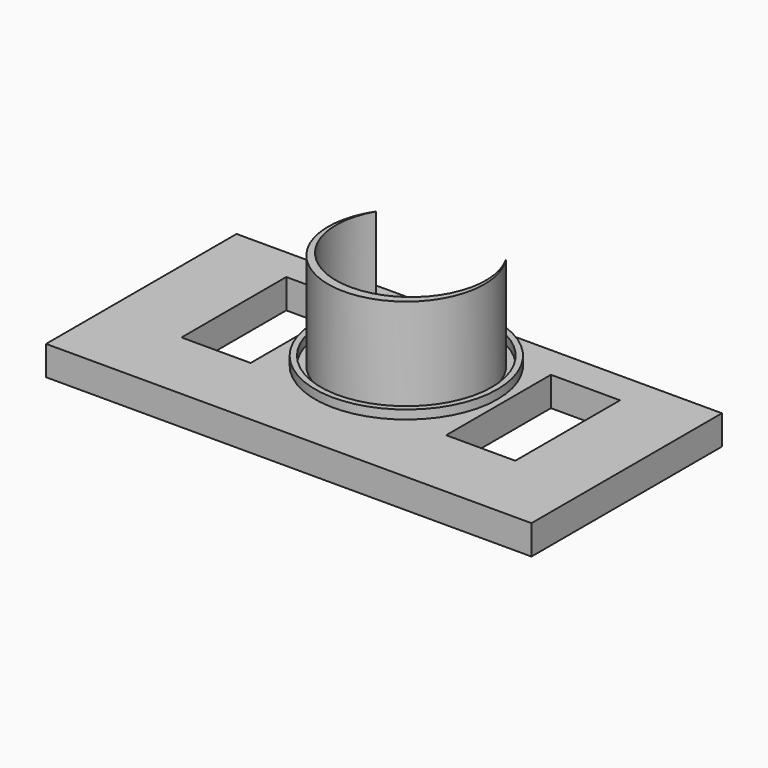
from build123d import *

# Parameters (mm, degrees)
PAD002_DEPTH  = 33
SKETCH003_W   = 165.06
SKETCH003_H   = 80.96
SKETCH003_W_2 = 23.5
SKETCH003_H_2 = 44.52
PAD003_DEPTH  = 10
SKETCH004_R   = 31
SKETCH004_R_2 = 29.055
PAD004_DEPTH  = 3


with BuildPart() as part:
    # Sketch002 → Pad002 (new body)
    with BuildSketch(Plane.XY):
        with BuildLine():
            ThreePointArc((-22.083648, 12.75), (0, -25.5), (22.083648, 12.75))
            ThreePointArc((-22.083648, 12.75), (0, -28.556543), (22.083648, 12.75))
        make_face()
    extrude(amount=PAD002_DEPTH)

    # Sketch003 → Pad003 (join)
    with BuildSketch(Plane.XY):
        with Locations((0, -11.48)):
            Rectangle(SKETCH003_W, SKETCH003_H)
        with BuildLine():
            ThreePointArc((-6.689544, 7.7), (-10.2, 0), (-6.689544, -7.7))
            Line((-6.689544, -7.7), (6.689544, -7.7))
            ThreePointArc((6.689544, -7.7), (10.2, 0), (6.689544, 7.7))
            Line((-6.689544, 7.7), (6.689544, 7.7))
        make_face(mode=Mode.SUBTRACT)
        with Locations((45, -4.35)):
            Rectangle(SKETCH003_W_2, SKETCH003_H_2, mode=Mode.SUBTRACT)
        with Locations((-45, -4.35)):
            Rectangle(SKETCH003_W_2, SKETCH003_H_2, mode=Mode.SUBTRACT)
    extrude(amount=-PAD003_DEPTH)

    # Sketch004 (on Face3 of Pad003) → Pad004 (join)
    with BuildSketch(Plane.XY):
        with Locations((0, -2)):
            Circle(SKETCH004_R)
        with Locations((0, -2)):
            Circle(SKETCH004_R_2, mode=Mode.SUBTRACT)
    extrude(amount=PAD004_DEPTH)


solid = part.part
